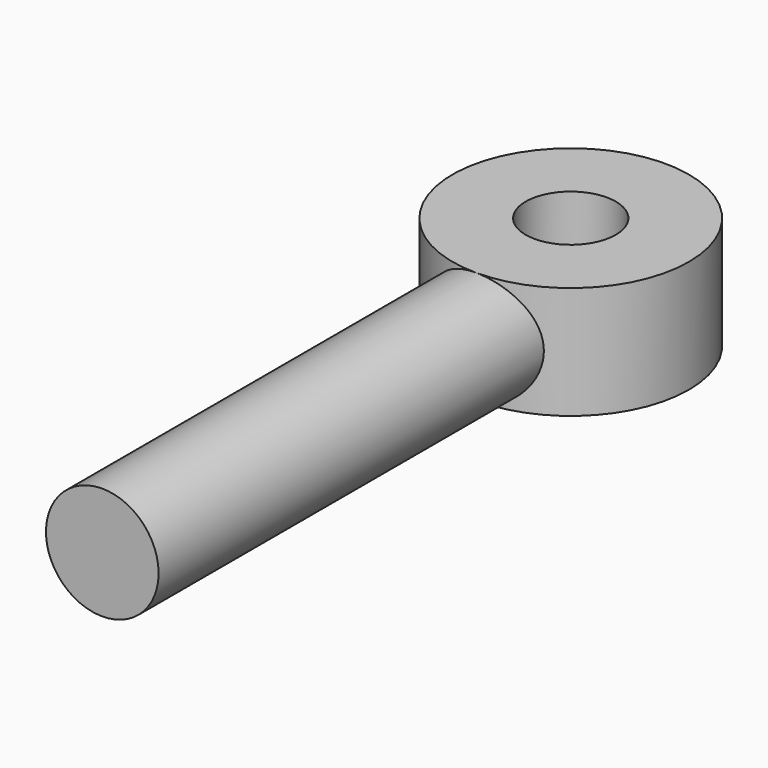
from build123d import *

# Parameters (mm, degrees)
F3_R     = 16.66875
F3_R_2   = 6.35
F4_DEPTH = 7.9375
F6_R     = 7.9375
F7_DEPTH = 76.2


with BuildPart() as f4:
    # F3 (on Top) → F4 (new body, symmetric)
    with BuildSketch(Plane.XY):
        Circle(F3_R)
        Circle(F3_R_2, mode=Mode.SUBTRACT)
    extrude(amount=F4_DEPTH, both=True)

    # F6 (on offset) → F7 (join)
    with BuildSketch(Plane.XZ.offset(6.35)):
        Circle(F6_R)
    extrude(amount=F7_DEPTH)


solid = f4.part
